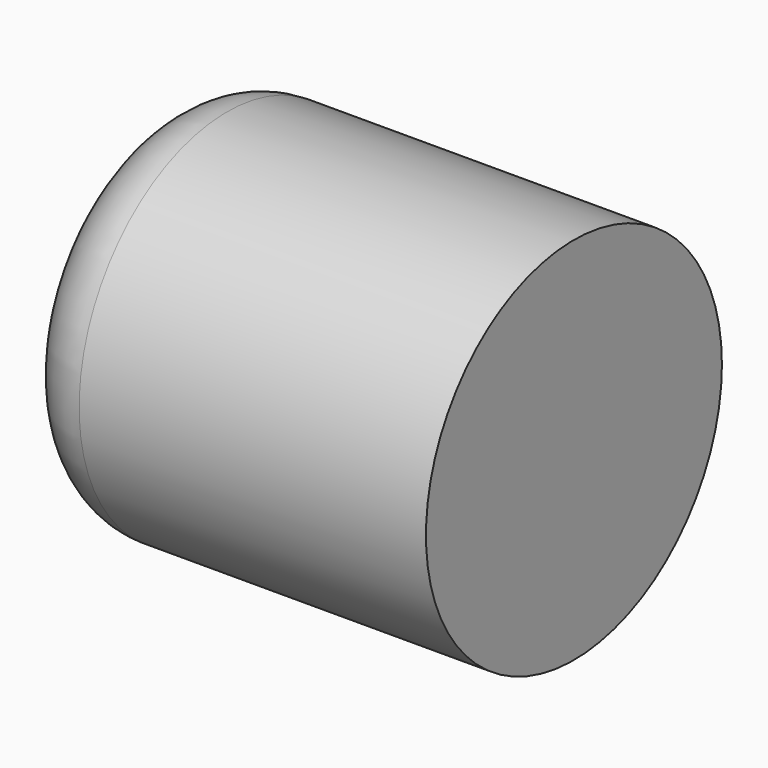
from build123d import *


with BuildPart() as f1:
    # F0 (on Top) → F1 (revolve)
    with BuildSketch(Plane.XY):
        with BuildLine():
            Line((0, 6.35), (0, 0))
            Line((0, 0), (22.86, 0))
            Line((22.86, 0), (22.86, 10.16))
            Line((22.86, 10.16), (3.81, 10.16))
            ThreePointArc((3.81, 10.16), (1.115923, 9.044077), (0, 6.35))
        make_face()
    revolve(axis=Axis((11.43, 0, 0), (1, 0, 0)))


solid = f1.part
